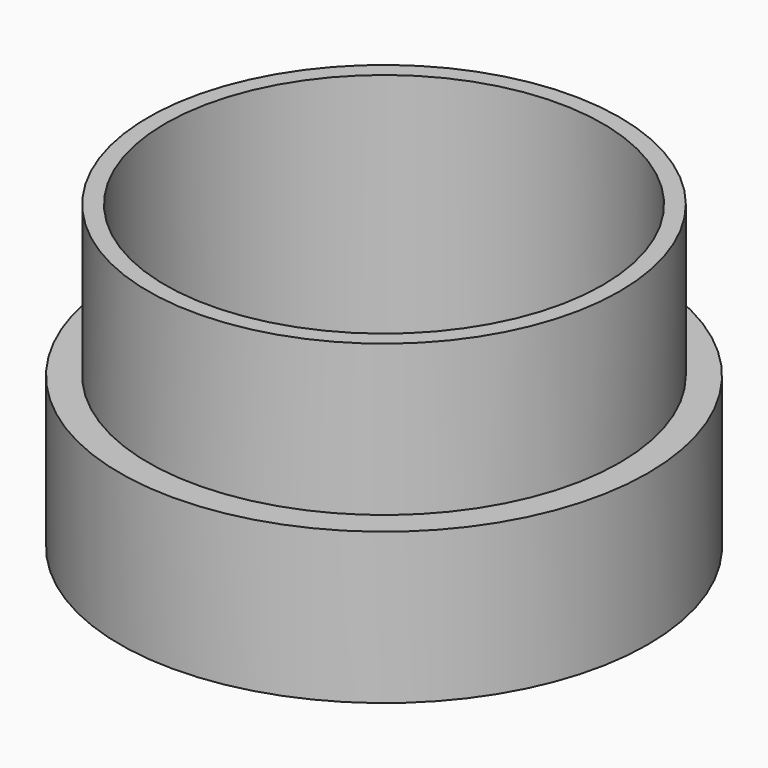
from build123d import *

# Parameters (mm, degrees)
F0_R     = 35
F1_DEPTH = 40
F2_R     = 35
F2_R_2   = 31.25
F3_DEPTH = 20
F2_R_3   = 29
F4_DEPTH = 40


with BuildPart() as f1:
    # F0 (on Top) → F1 (new body)
    with BuildSketch(Plane.XY):
        Circle(F0_R)
    extrude(amount=F1_DEPTH)

    # F2 (on face) → F3 (cut)
    with BuildSketch(Plane.XY.offset(40)):
        Circle(F2_R)
        Circle(F2_R_2, mode=Mode.SUBTRACT)
    extrude(amount=-F3_DEPTH, mode=Mode.SUBTRACT)

    # F2 (on face) → F4 (cut)
    with BuildSketch(Plane.XY.offset(40)):
        Circle(F2_R_3)
    extrude(amount=-F4_DEPTH, mode=Mode.SUBTRACT)


solid = f1.part
